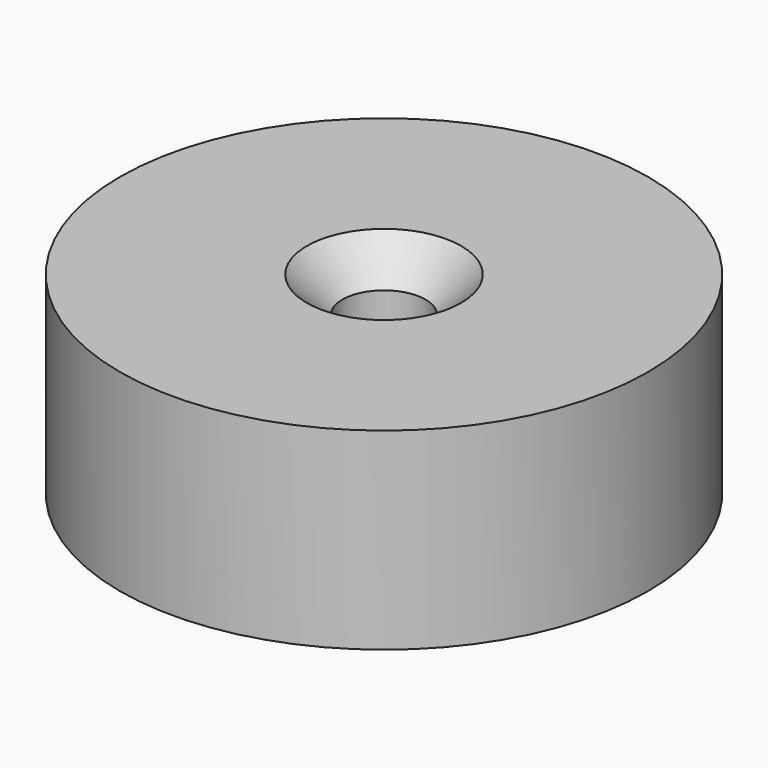
from build123d import *

# Parameters (mm, degrees)
F2_SIZE2 = 1.2
F2_SIZE  = 1.2


with BuildPart() as f1:
    # F0 (on Front) → F1 (revolve)
    with BuildSketch(Plane.XZ):
        Polygon((7.4, 0), (8.9, 0), (8.9, 6.5), (1.4, 6.5), (1.4, 1.6), (4.9, 1.6), (4.9, 5), (7.4, 5), align=None)
    revolve(axis=Axis((0, 0, 4.34384), (0, 0, -1)))

    # F2
    f2_edges = [f1.edges().sort_by_distance(p)[0] for p in [
        (-1.4, 0, 6.5),
    ]]
    chamfer(f2_edges, length=F2_SIZE, length2=F2_SIZE2)


solid = f1.part
